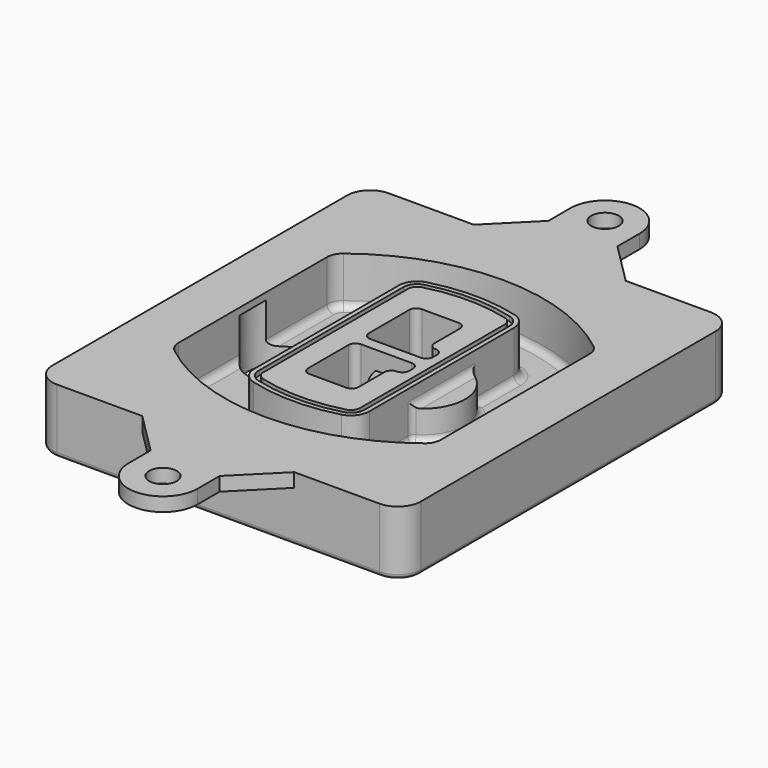
from build123d import *

# Parameters (mm, degrees)
F0_R      = 4
F1_DEPTH  = 25
F2_DEPTH  = 3
F3_DEPTH  = 18
F5_DEPTH  = 21
F6_DEPTH  = 2
F8_DEPTH  = 20
F9_DEPTH  = 16
F10_DEPTH = 25
F7_R      = 6
F7_R_2    = 4
F11_DEPTH = 6
F13_DEPTH = 9
F14_R     = 3
F15_R     = 2
F16_R     = 6
F17_DEPTH = 3


with BuildPart() as f1:
    # F0 (on Top) → F1 (new body)
    with BuildSketch(Plane.XY):
        with BuildLine():
            ThreePointArc((-80, -80), (-77.0710678119, -87.0710678119), (-70, -90))
            Line((-70, -90), (70, -90))
            ThreePointArc((70, -90), (77.0710678119, -87.0710678119), (80, -80))
            Line((80, -80), (80, 80))
            ThreePointArc((80, 80), (77.0710678119, 87.0710678119), (70, 90))
            Line((70, 90), (-70, 90))
            ThreePointArc((-70, 90), (-77.0710678119, 87.0710678119), (-80, 80))
            Line((-80, 80), (-80, -80))
        make_face()
        with Locations((-60, -67.5)):
            Circle(F0_R, mode=Mode.SUBTRACT)
        with Locations((60, -67.5)):
            Circle(F0_R, mode=Mode.SUBTRACT)
        with Locations((-60, 67.5)):
            Circle(F0_R, mode=Mode.SUBTRACT)
        with BuildLine():
            ThreePointArc((-64, 40.2934422872), (-62.5820384798, 46.4328484224), (-58.6153846154, 51.3286200352))
            ThreePointArc((-58.6153846154, 51.3286200352), (0, 71.5), (58.6153846154, 51.3286200352))
            ThreePointArc((58.6153846154, 51.3286200352), (62.5820384798, 46.4328484224), (64, 40.2934422872))
            Line((64, 40.2934422872), (64, -40.2934422872))
            ThreePointArc((64, -40.2934422872), (62.5820384798, -46.4328484224), (58.6153846154, -51.3286200352))
            ThreePointArc((58.6153846154, -51.3286200352), (0, -71.5), (-58.6153846154, -51.3286200352))
            ThreePointArc((-58.6153846154, -51.3286200352), (-62.5820384798, -46.4328484224), (-64, -40.2934422872))
            Line((-64, -40.2934422872), (-64, 40.2934422872))
        make_face(mode=Mode.SUBTRACT)
        with Locations((60, 67.5)):
            Circle(F0_R, mode=Mode.SUBTRACT)
        with BuildLine():
            ThreePointArc((58.6153846154, 51.3286200352), (0, 71.5), (-58.6153846154, 51.3286200352))
            ThreePointArc((-58.6153846154, 51.3286200352), (-62.5820384798, 46.4328484224), (-64, 40.2934422872))
            Line((-64, 40.2934422872), (-64, -40.2934422872))
            ThreePointArc((-64, -40.2934422872), (-62.5820384798, -46.4328484224), (-58.6153846154, -51.3286200352))
            ThreePointArc((-58.6153846154, -51.3286200352), (0, -71.5), (58.6153846154, -51.3286200352))
            ThreePointArc((58.6153846154, -51.3286200352), (62.5820384798, -46.4328484224), (64, -40.2934422872))
            Line((64, -40.2934422872), (64, 40.2934422872))
            ThreePointArc((64, 40.2934422872), (62.5820384798, 46.4328484224), (58.6153846154, 51.3286200352))
        make_face()
        with BuildLine():
            Line((-60, -40.2934422872), (-60, 40.2934422872))
            ThreePointArc((-60, 40.2934422872), (-58.9871703427, 44.6787323838), (-56.1538461538, 48.1757121072))
            ThreePointArc((-56.1538461538, 48.1757121072), (0, 67.5), (56.1538461538, 48.1757121072))
            ThreePointArc((56.1538461538, 48.1757121072), (58.9871703427, 44.6787323838), (60, 40.2934422872))
            Line((60, 40.2934422872), (60, -40.2934422872))
            ThreePointArc((60, -40.2934422872), (58.9871703427, -44.6787323838), (56.1538461538, -48.1757121072))
            ThreePointArc((56.1538461538, -48.1757121072), (0, -67.5), (-56.1538461538, -48.1757121072))
            ThreePointArc((-56.1538461538, -48.1757121072), (-58.9871703427, -44.6787323838), (-60, -40.2934422872))
        make_face(mode=Mode.SUBTRACT)
        with BuildLine():
            ThreePointArc((-56.1538461538, 48.1757121072), (-58.9871703427, 44.6787323838), (-60, 40.2934422872))
            Line((-60, 40.2934422872), (-60, -40.2934422872))
            ThreePointArc((-60, -40.2934422872), (-58.9871703427, -44.6787323838), (-56.1538461538, -48.1757121072))
            ThreePointArc((-56.1538461538, -48.1757121072), (0, -67.5), (56.1538461538, -48.1757121072))
            ThreePointArc((56.1538461538, -48.1757121072), (58.9871703427, -44.6787323838), (60, -40.2934422872))
            Line((60, -40.2934422872), (60, 40.2934422872))
            ThreePointArc((60, 40.2934422872), (58.9871703427, 44.6787323838), (56.1538461538, 48.1757121072))
            ThreePointArc((56.1538461538, 48.1757121072), (0, 67.5), (-56.1538461538, 48.1757121072))
        make_face()
        with BuildLine():
            ThreePointArc((54.3076923077, 45.8110311612), (56.2910192399, 43.3631453548), (57, 40.2934422872))
            Line((57, 40.2934422872), (57, -40.2934422872))
            ThreePointArc((57, -40.2934422872), (56.2910192399, -43.3631453548), (54.3076923077, -45.8110311612))
            ThreePointArc((54.3076923077, -45.8110311612), (0, -64.5), (-54.3076923077, -45.8110311612))
            ThreePointArc((-54.3076923077, -45.8110311612), (-56.2910192399, -43.3631453548), (-57, -40.2934422872))
            Line((-57, -40.2934422872), (-57, 40.2934422872))
            ThreePointArc((-57, 40.2934422872), (-56.2910192399, 43.3631453548), (-54.3076923077, 45.8110311612))
            ThreePointArc((-54.3076923077, 45.8110311612), (0, 64.5), (54.3076923077, 45.8110311612))
        make_face(mode=Mode.SUBTRACT)
        with BuildLine():
            Line((57, -40.2934422872), (57, 40.2934422872))
            ThreePointArc((57, 40.2934422872), (56.2910192399, 43.3631453548), (54.3076923077, 45.8110311612))
            ThreePointArc((54.3076923077, 45.8110311612), (0, 64.5), (-54.3076923077, 45.8110311612))
            ThreePointArc((-54.3076923077, 45.8110311612), (-56.2910192399, 43.3631453548), (-57, 40.2934422872))
            Line((-57, 40.2934422872), (-57, -40.2934422872))
            ThreePointArc((-57, -40.2934422872), (-56.2910192399, -43.3631453548), (-54.3076923077, -45.8110311612))
            ThreePointArc((-54.3076923077, -45.8110311612), (0, -64.5), (54.3076923077, -45.8110311612))
            ThreePointArc((54.3076923077, -45.8110311612), (56.2910192399, -43.3631453548), (57, -40.2934422872))
        make_face()
    extrude(amount=-F1_DEPTH)

    # F0 (on Top) → F2 (join)
    with BuildSketch(Plane.XY):
        with BuildLine():
            ThreePointArc((-56.1538461538, 48.1757121072), (-58.9871703427, 44.6787323838), (-60, 40.2934422872))
            Line((-60, 40.2934422872), (-60, -40.2934422872))
            ThreePointArc((-60, -40.2934422872), (-58.9871703427, -44.6787323838), (-56.1538461538, -48.1757121072))
            ThreePointArc((-56.1538461538, -48.1757121072), (0, -67.5), (56.1538461538, -48.1757121072))
            ThreePointArc((56.1538461538, -48.1757121072), (58.9871703427, -44.6787323838), (60, -40.2934422872))
            Line((60, -40.2934422872), (60, 40.2934422872))
            ThreePointArc((60, 40.2934422872), (58.9871703427, 44.6787323838), (56.1538461538, 48.1757121072))
            ThreePointArc((56.1538461538, 48.1757121072), (0, 67.5), (-56.1538461538, 48.1757121072))
        make_face()
        with BuildLine():
            ThreePointArc((54.3076923077, 45.8110311612), (56.2910192399, 43.3631453548), (57, 40.2934422872))
            Line((57, 40.2934422872), (57, -40.2934422872))
            ThreePointArc((57, -40.2934422872), (56.2910192399, -43.3631453548), (54.3076923077, -45.8110311612))
            ThreePointArc((54.3076923077, -45.8110311612), (0, -64.5), (-54.3076923077, -45.8110311612))
            ThreePointArc((-54.3076923077, -45.8110311612), (-56.2910192399, -43.3631453548), (-57, -40.2934422872))
            Line((-57, -40.2934422872), (-57, 40.2934422872))
            ThreePointArc((-57, 40.2934422872), (-56.2910192399, 43.3631453548), (-54.3076923077, 45.8110311612))
            ThreePointArc((-54.3076923077, 45.8110311612), (0, 64.5), (54.3076923077, 45.8110311612))
        make_face(mode=Mode.SUBTRACT)
    extrude(amount=F2_DEPTH)

    # F0 (on Top) → F3 (cut)
    with BuildSketch(Plane.XY):
        with BuildLine():
            Line((57, -40.2934422872), (57, 40.2934422872))
            ThreePointArc((57, 40.2934422872), (56.2910192399, 43.3631453548), (54.3076923077, 45.8110311612))
            ThreePointArc((54.3076923077, 45.8110311612), (0, 64.5), (-54.3076923077, 45.8110311612))
            ThreePointArc((-54.3076923077, 45.8110311612), (-56.2910192399, 43.3631453548), (-57, 40.2934422872))
            Line((-57, 40.2934422872), (-57, -40.2934422872))
            ThreePointArc((-57, -40.2934422872), (-56.2910192399, -43.3631453548), (-54.3076923077, -45.8110311612))
            ThreePointArc((-54.3076923077, -45.8110311612), (0, -64.5), (54.3076923077, -45.8110311612))
            ThreePointArc((54.3076923077, -45.8110311612), (56.2910192399, -43.3631453548), (57, -40.2934422872))
        make_face()
    extrude(amount=-F3_DEPTH, mode=Mode.SUBTRACT)

    # F4 (on face) → F5 (join, through all)
    with BuildSketch(Plane.XY.offset(3)):
        with BuildLine():
            ThreePointArc((-25, -39.2465276821), (-23.3511545998, -44.1109737193), (-19.0842911877, -46.9702398883))
            ThreePointArc((-19.0842911877, -46.9702398883), (0, -49.5), (19.0842911877, -46.9702398883))
            ThreePointArc((19.0842911877, -46.9702398883), (23.3511545998, -44.1109737193), (25, -39.2465276821))
            Line((25, -39.2465276821), (25, 39.2465276821))
            ThreePointArc((25, 39.2465276821), (23.3511545998, 44.1109737193), (19.0842911877, 46.9702398883))
            ThreePointArc((19.0842911877, 46.9702398883), (0, 49.5), (-19.0842911877, 46.9702398883))
            ThreePointArc((-19.0842911877, 46.9702398883), (-23.3511545998, 44.1109737193), (-25, 39.2465276821))
            Line((-25, 39.2465276821), (-25, -39.2465276821))
        make_face()
        with BuildLine():
            ThreePointArc((18.5632183908, 45.0393118368), (21.7633659499, 42.89486221), (23, 39.2465276821))
            Line((23, 39.2465276821), (23, -39.2465276821))
            ThreePointArc((23, -39.2465276821), (21.7633659499, -42.89486221), (18.5632183908, -45.0393118368))
            ThreePointArc((18.5632183908, -45.0393118368), (0, -47.5), (-18.5632183908, -45.0393118368))
            ThreePointArc((-18.5632183908, -45.0393118368), (-21.7633659499, -42.89486221), (-23, -39.2465276821))
            Line((-23, -39.2465276821), (-23, 39.2465276821))
            ThreePointArc((-23, 39.2465276821), (-21.7633659499, 42.89486221), (-18.5632183908, 45.0393118368))
            ThreePointArc((-18.5632183908, 45.0393118368), (0, 47.5), (18.5632183908, 45.0393118368))
        make_face(mode=Mode.SUBTRACT)
        with BuildLine():
            Line((23, -39.2465276821), (23, 39.2465276821))
            ThreePointArc((23, 39.2465276821), (21.7633659499, 42.89486221), (18.5632183908, 45.0393118368))
            ThreePointArc((18.5632183908, 45.0393118368), (0, 47.5), (-18.5632183908, 45.0393118368))
            ThreePointArc((-18.5632183908, 45.0393118368), (-21.7633659499, 42.89486221), (-23, 39.2465276821))
            Line((-23, 39.2465276821), (-23, -39.2465276821))
            ThreePointArc((-23, -39.2465276821), (-21.7633659499, -42.89486221), (-18.5632183908, -45.0393118368))
            ThreePointArc((-18.5632183908, -45.0393118368), (0, -47.5), (18.5632183908, -45.0393118368))
            ThreePointArc((18.5632183908, -45.0393118368), (21.7633659499, -42.89486221), (23, -39.2465276821))
        make_face()
        with BuildLine():
            ThreePointArc((18.0421455939, 43.1083837852), (20.1755772999, 41.6787507007), (21, 39.2465276821))
            Line((21, 39.2465276821), (21, -39.2465276821))
            ThreePointArc((21, -39.2465276821), (20.1755772999, -41.6787507007), (18.0421455939, -43.1083837852))
            ThreePointArc((18.0421455939, -43.1083837852), (0, -45.5), (-18.0421455939, -43.1083837852))
            ThreePointArc((-18.0421455939, -43.1083837852), (-20.1755772999, -41.6787507007), (-21, -39.2465276821))
            Line((-21, -39.2465276821), (-21, 39.2465276821))
            ThreePointArc((-21, 39.2465276821), (-20.1755772999, 41.6787507007), (-18.0421455939, 43.1083837852))
            ThreePointArc((-18.0421455939, 43.1083837852), (0, 45.5), (18.0421455939, 43.1083837852))
        make_face(mode=Mode.SUBTRACT)
        with BuildLine():
            Line((21, -39.2465276821), (21, 39.2465276821))
            ThreePointArc((21, 39.2465276821), (20.1755772999, 41.6787507007), (18.0421455939, 43.1083837852))
            ThreePointArc((18.0421455939, 43.1083837852), (0, 45.5), (-18.0421455939, 43.1083837852))
            ThreePointArc((-18.0421455939, 43.1083837852), (-20.1755772999, 41.6787507007), (-21, 39.2465276821))
            Line((-21, 39.2465276821), (-21, -39.2465276821))
            ThreePointArc((-21, -39.2465276821), (-20.1755772999, -41.6787507007), (-18.0421455939, -43.1083837852))
            ThreePointArc((-18.0421455939, -43.1083837852), (0, -45.5), (18.0421455939, -43.1083837852))
            ThreePointArc((18.0421455939, -43.1083837852), (20.1755772999, -41.6787507007), (21, -39.2465276821))
        make_face()
        with BuildLine():
            Line((-8, -2.5), (14, -2.5))
            ThreePointArc((14, -2.5), (16.1213203436, -3.3786796564), (17, -5.5))
            Line((17, -5.5), (17, -7.5))
            ThreePointArc((17, -7.5), (16.1213203436, -9.6213203436), (14, -10.5))
            ThreePointArc((14, -10.5), (11.8786796564, -11.3786796564), (11, -13.5))
            Line((11, -13.5), (11, -27.5))
            ThreePointArc((11, -27.5), (10.1213203436, -29.6213203436), (8, -30.5))
            Line((8, -30.5), (-8, -30.5))
            ThreePointArc((-8, -30.5), (-10.1213203436, -29.6213203436), (-11, -27.5))
            Line((-11, -27.5), (-11, -5.5))
            ThreePointArc((-11, -5.5), (-10.1213203436, -3.3786796564), (-8, -2.5))
        make_face(mode=Mode.SUBTRACT)
        with BuildLine():
            ThreePointArc((-8, 2.5), (-10.1213203436, 3.3786796564), (-11, 5.5))
            Line((-11, 5.5), (-11, 27.5))
            ThreePointArc((-11, 27.5), (-10.1213203436, 29.6213203436), (-8, 30.5))
            Line((-8, 30.5), (8, 30.5))
            ThreePointArc((8, 30.5), (10.1213203436, 29.6213203436), (11, 27.5))
            Line((11, 27.5), (11, 13.5))
            ThreePointArc((11, 13.5), (11.8786796564, 11.3786796564), (14, 10.5))
            ThreePointArc((14, 10.5), (16.1213203436, 9.6213203436), (17, 7.5))
            Line((17, 7.5), (17, 5.5))
            ThreePointArc((17, 5.5), (16.1213203436, 3.3786796564), (14, 2.5))
            Line((14, 2.5), (-8, 2.5))
        make_face(mode=Mode.SUBTRACT)
    extrude(amount=-F5_DEPTH)

    # F4 (on face) → F6 (cut)
    with BuildSketch(Plane.XY.offset(3)):
        with BuildLine():
            Line((23, -39.2465276821), (23, 39.2465276821))
            ThreePointArc((23, 39.2465276821), (21.7633659499, 42.89486221), (18.5632183908, 45.0393118368))
            ThreePointArc((18.5632183908, 45.0393118368), (0, 47.5), (-18.5632183908, 45.0393118368))
            ThreePointArc((-18.5632183908, 45.0393118368), (-21.7633659499, 42.89486221), (-23, 39.2465276821))
            Line((-23, 39.2465276821), (-23, -39.2465276821))
            ThreePointArc((-23, -39.2465276821), (-21.7633659499, -42.89486221), (-18.5632183908, -45.0393118368))
            ThreePointArc((-18.5632183908, -45.0393118368), (0, -47.5), (18.5632183908, -45.0393118368))
            ThreePointArc((18.5632183908, -45.0393118368), (21.7633659499, -42.89486221), (23, -39.2465276821))
        make_face()
        with BuildLine():
            ThreePointArc((18.0421455939, 43.1083837852), (20.1755772999, 41.6787507007), (21, 39.2465276821))
            Line((21, 39.2465276821), (21, -39.2465276821))
            ThreePointArc((21, -39.2465276821), (20.1755772999, -41.6787507007), (18.0421455939, -43.1083837852))
            ThreePointArc((18.0421455939, -43.1083837852), (0, -45.5), (-18.0421455939, -43.1083837852))
            ThreePointArc((-18.0421455939, -43.1083837852), (-20.1755772999, -41.6787507007), (-21, -39.2465276821))
            Line((-21, -39.2465276821), (-21, 39.2465276821))
            ThreePointArc((-21, 39.2465276821), (-20.1755772999, 41.6787507007), (-18.0421455939, 43.1083837852))
            ThreePointArc((-18.0421455939, 43.1083837852), (0, 45.5), (18.0421455939, 43.1083837852))
        make_face(mode=Mode.SUBTRACT)
    extrude(amount=-F6_DEPTH, mode=Mode.SUBTRACT)

    # F7 (on face) → F8 (join)
    with BuildSketch(Plane(origin=(0, 0, -25), x_dir=(1, 0, 0), z_dir=(0, 0, -1))):
        with BuildLine():
            ThreePointArc((3.28842436, 0), (16.7567035675, 13.4682792075), (30.224982775, 0))
            Line((30.224982775, 0), (35.224982775, 0))
            ThreePointArc((35.224982775, 0), (16.7567035675, 18.4682792075), (-1.71157564, 0))
            Line((-1.71157564, 0), (3.28842436, 0))
        make_face()
        with BuildLine():
            Line((3.28842436, 0), (30.224982775, 0))
            ThreePointArc((30.224982775, 0), (16.7567035675, 13.4682792075), (3.28842436, 0))
        make_face()
        with BuildLine():
            ThreePointArc((3.28842436, 0), (16.7567035675, -13.4682792075), (30.224982775, 0))
            Line((30.224982775, 0), (3.28842436, 0))
        make_face()
        with BuildLine():
            Line((35.224982775, 0), (30.224982775, 0))
            ThreePointArc((30.224982775, 0), (16.7567035675, -13.4682792075), (3.28842436, 0))
            Line((3.28842436, 0), (-1.71157564, 0))
            ThreePointArc((-1.71157564, 0), (16.7567035675, -18.4682792075), (35.224982775, 0))
        make_face()
    extrude(amount=-F8_DEPTH)

    # F7 (on face) → F9 (cut)
    with BuildSketch(Plane(origin=(0, 0, -25), x_dir=(1, 0, 0), z_dir=(0, 0, -1))):
        with BuildLine():
            Line((3.28842436, 0), (30.224982775, 0))
            ThreePointArc((30.224982775, 0), (16.7567035675, 13.4682792075), (3.28842436, 0))
        make_face()
        with BuildLine():
            ThreePointArc((3.28842436, 0), (16.7567035675, -13.4682792075), (30.224982775, 0))
            Line((30.224982775, 0), (3.28842436, 0))
        make_face()
    extrude(amount=-F9_DEPTH, mode=Mode.SUBTRACT)

    # F7 (on face) → F10 (cut)
    with BuildSketch(Plane(origin=(0, 0, -25), x_dir=(1, 0, 0), z_dir=(0, 0, -1))):
        with BuildLine():
            Line((-59.0318229325, 0), (-32.0952645175, 0))
            ThreePointArc((-32.0952645175, 0), (-45.563543725, 13.4682792075), (-59.0318229325, 0))
        make_face()
        with BuildLine():
            ThreePointArc((-59.0318229325, 0), (-45.563543725, -13.4682792075), (-32.0952645175, 0))
            Line((-32.0952645175, 0), (-59.0318229325, 0))
        make_face()
    extrude(amount=-F10_DEPTH, mode=Mode.SUBTRACT)

    # F7 (on face) → F11 (cut)
    with BuildSketch(Plane(origin=(0, 0, -25), x_dir=(1, 0, 0), z_dir=(0, 0, -1))):
        with Locations((60, -67.5)):
            Circle(F7_R)
        with Locations((60, -67.5)):
            Circle(F7_R_2, mode=Mode.SUBTRACT)
        with Locations((60, -67.5)):
            Circle(F7_R)
        with Locations((60, -67.5)):
            Circle(F7_R_2, mode=Mode.SUBTRACT)
        with Locations((-60, -67.5)):
            Circle(F7_R)
        with Locations((-60, -67.5)):
            Circle(F7_R_2, mode=Mode.SUBTRACT)
        with Locations((-60, -67.5)):
            Circle(F7_R)
        with Locations((-60, -67.5)):
            Circle(F7_R_2, mode=Mode.SUBTRACT)
        with Locations((-60, 67.5)):
            Circle(F7_R)
        with Locations((-60, 67.5)):
            Circle(F7_R_2, mode=Mode.SUBTRACT)
        with Locations((-60, 67.5)):
            Circle(F7_R)
        with Locations((-60, 67.5)):
            Circle(F7_R_2, mode=Mode.SUBTRACT)
        with Locations((60, 67.5)):
            Circle(F7_R)
        with Locations((60, 67.5)):
            Circle(F7_R_2, mode=Mode.SUBTRACT)
        with Locations((60, 67.5)):
            Circle(F7_R)
        with Locations((60, 67.5)):
            Circle(F7_R_2, mode=Mode.SUBTRACT)
    extrude(amount=-F11_DEPTH, mode=Mode.SUBTRACT)

    # F12 (on face) → F13 (cut, through all)
    with BuildSketch(Plane(origin=(0, 0, -9), x_dir=(1, 0, 0), z_dir=(0, 0, -1))):
        with BuildLine():
            Line((11, 13.5), (11, 17.5481537753))
            ThreePointArc((11, 17.5481537753), (2.5696536419, 11.8239143813), (-1.5415842455, 2.5))
            Line((-1.5415842455, 2.5), (3.5224848595, 2.5))
            ThreePointArc((3.5224848595, 2.5), (6.1857188154, 8.3455872281), (11.2536447004, 12.2927168648))
            ThreePointArc((11.2536447004, 12.2927168648), (11.0640958889, 12.8831798879), (11, 13.5))
        make_face()
        with BuildLine():
            ThreePointArc((11.2536447004, -12.2927168648), (6.1857188154, -8.3455872281), (3.5224848595, -2.5))
            Line((3.5224848595, -2.5), (-1.5415842455, -2.5))
            ThreePointArc((-1.5415842455, -2.5), (2.5696536419, -11.8239143813), (11, -17.5481537753))
            Line((11, -17.5481537753), (11, -13.5))
            ThreePointArc((11, -13.5), (11.0640958889, -12.8831798879), (11.2536447004, -12.2927168648))
        make_face()
        with BuildLine():
            ThreePointArc((11.2536447004, 12.2927168648), (6.1857188154, 8.3455872281), (3.5224848595, 2.5))
            Line((3.5224848595, 2.5), (14, 2.5))
            ThreePointArc((14, 2.5), (16.1213203436, 3.3786796564), (17, 5.5))
            Line((17, 5.5), (17, 7.5))
            ThreePointArc((17, 7.5), (16.1213203436, 9.6213203436), (14, 10.5))
            ThreePointArc((14, 10.5), (12.3601599782, 10.9878446101), (11.2536447004, 12.2927168648))
        make_face()
        with BuildLine():
            Line((14, -2.5), (3.5224848595, -2.5))
            ThreePointArc((3.5224848595, -2.5), (6.1857188154, -8.3455872281), (11.2536447004, -12.2927168648))
            ThreePointArc((11.2536447004, -12.2927168648), (12.3601599782, -10.9878446101), (14, -10.5))
            ThreePointArc((14, -10.5), (16.1213203436, -9.6213203436), (17, -7.5))
            Line((17, -7.5), (17, -5.5))
            ThreePointArc((17, -5.5), (16.1213203436, -3.3786796564), (14, -2.5))
        make_face()
    extrude(amount=F13_DEPTH, mode=Mode.SUBTRACT)

    # F14
    f14_edges = [f1.edges().sort_by_distance(p)[0] for p in [
        (-57, -23.703476, -18),
        (-57, 23.703476, -18),
        (25, 0, -5),
        (25, 16.526506, -11.5),
        (25, -16.526506, -11.5),
        (25, -27.886517, -18),
        (35.224983, 0, -18),
    ]]
    fillet(f14_edges, radius=F14_R)

    # F15
    f15_edges = [f1.edges().sort_by_distance(p)[0] for p in [
        (0, -90, -25),
    ]]
    fillet(f15_edges, radius=F15_R)

    # F16 (on face) → F17 (join, symmetric)
    with BuildSketch(Plane.XY):
        with BuildLine():
            Line((15, 108), (15, 120))
            ThreePointArc((15, 120), (0, 135), (-15, 120))
            Line((-15, 120), (-15, 108))
            Line((-15, 108), (-33, 90))
            Line((-33, 90), (33, 90))
            Line((33, 90), (15, 108))
        make_face()
        with Locations((0, 120)):
            Circle(F16_R, mode=Mode.SUBTRACT)
        with BuildLine():
            Line((70, 90), (33, 90))
            Line((33, 90), (-33, 90))
            Line((-33, 90), (-70, 90))
            ThreePointArc((-70, 90), (-77.0710678119, 87.0710678119), (-80, 80))
            Line((-80, 80), (-80, -80))
            ThreePointArc((-80, -80), (-77.0710678119, -87.0710678119), (-70, -90))
            Line((-70, -90), (-33, -90))
            Line((-33, -90), (33, -90))
            Line((33, -90), (70, -90))
            ThreePointArc((70, -90), (77.0710678119, -87.0710678119), (80, -80))
            Line((80, -80), (80, 80))
            ThreePointArc((80, 80), (77.0710678119, 87.0710678119), (70, 90))
        make_face()
        with BuildLine():
            ThreePointArc((-56.1538461538, 48.1757121072), (0, 67.5), (56.1538461538, 48.1757121072))
            ThreePointArc((56.1538461538, 48.1757121072), (58.9871703427, 44.6787323838), (60, 40.2934422872))
            Line((60, 40.2934422872), (60, -40.2934422872))
            ThreePointArc((60, -40.2934422872), (58.9871703427, -44.6787323838), (56.1538461538, -48.1757121072))
            ThreePointArc((56.1538461538, -48.1757121072), (0, -67.5), (-56.1538461538, -48.1757121072))
            ThreePointArc((-56.1538461538, -48.1757121072), (-58.9871703427, -44.6787323838), (-60, -40.2934422872))
            Line((-60, -40.2934422872), (-60, 40.2934422872))
            ThreePointArc((-60, 40.2934422872), (-58.9871703427, 44.6787323838), (-56.1538461538, 48.1757121072))
        make_face(mode=Mode.SUBTRACT)
        with BuildLine():
            Line((15, -108), (33, -90))
            Line((33, -90), (-33, -90))
            Line((-33, -90), (-15, -108))
            Line((-15, -108), (-15, -120))
            ThreePointArc((-15, -120), (0, -135), (15, -120))
            Line((15, -120), (15, -108))
        make_face()
        with Locations((0, -120)):
            Circle(F16_R, mode=Mode.SUBTRACT)
    extrude(amount=F17_DEPTH, both=True)


solid = f1.part
